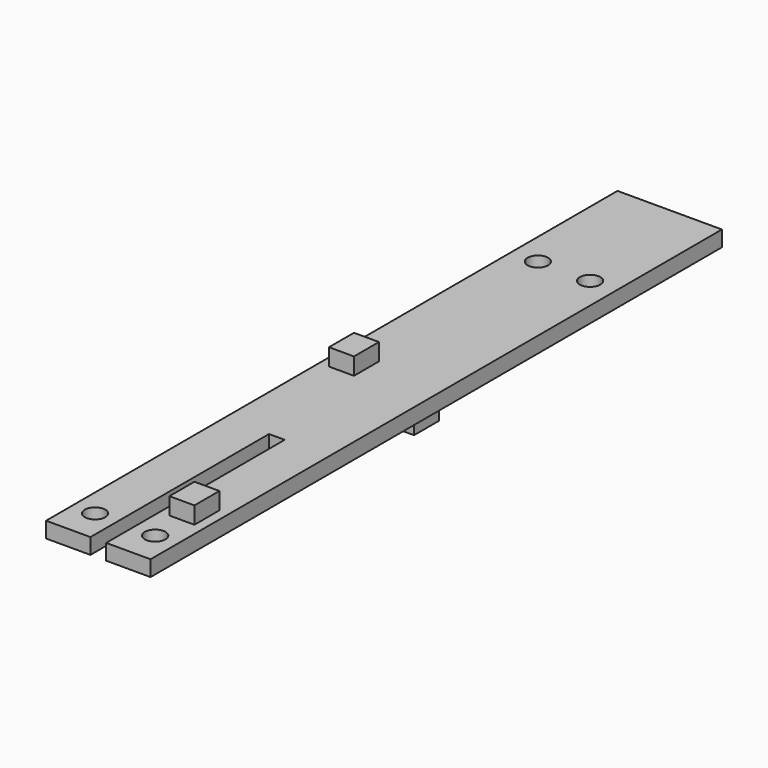
from build123d import *

# Parameters (mm, degrees)
F0_R      = 1.15
F1_DEPTH  = 0.88
F2_DEPTH  = 0.88
F3_W      = 2.8
F3_H      = 3.5
F4_DEPTH  = 2.79
F5_W      = 2.8
F5_H      = 3.5
F6_DEPTH  = 2.79
F8_DEPTH  = 2.79
F10_DEPTH = 2.79


with BuildPart() as f1:
    # F0 (on Top) → F1 (new body)
    with BuildSketch(Plane.XY):
        Polygon((5.85, 40), (-5.85, 40), (-5.85, 0), (-5.85, -40), (-0.88, -40), (-0.88, -15), (0.88, -15), (0.88, -40), (5.85, -40), (5.85, 0), align=None)
        with Locations((-3.365, -36.25)):
            Circle(F0_R, mode=Mode.SUBTRACT)
        with Locations((3.365, -36.25)):
            Circle(F0_R, mode=Mode.SUBTRACT)
        with Locations((-2.925, 25.2)):
            Circle(F0_R, mode=Mode.SUBTRACT)
        with Locations((2.925, 25.2)):
            Circle(F0_R, mode=Mode.SUBTRACT)
    extrude(amount=F1_DEPTH)

    # F0 (on Top) → F2 (join)
    with BuildSketch(Plane.XY):
        Polygon((5.85, 40), (-5.85, 40), (-5.85, 0), (-5.85, -40), (-0.88, -40), (-0.88, -15), (0.88, -15), (0.88, -40), (5.85, -40), (5.85, 0), align=None)
        with Locations((-3.365, -36.25)):
            Circle(F0_R, mode=Mode.SUBTRACT)
        with Locations((3.365, -36.25)):
            Circle(F0_R, mode=Mode.SUBTRACT)
        with Locations((-2.925, 25.2)):
            Circle(F0_R, mode=Mode.SUBTRACT)
        with Locations((2.925, 25.2)):
            Circle(F0_R, mode=Mode.SUBTRACT)
    extrude(amount=-F2_DEPTH)

    # F3 (on Top) → F4 (join)
    with BuildSketch(Plane.XY):
        with Locations((3.365, -30.75)):
            Rectangle(F3_W, F3_H)
    extrude(amount=F4_DEPTH)

    # F5 (on Top) → F6 (join)
    with BuildSketch(Plane.XY):
        with Locations((-3.365, -30.75)):
            Rectangle(F5_W, F5_H)
    extrude(amount=-F6_DEPTH)

    # F7 (on Top) → F8 (join)
    with BuildSketch(Plane.XY):
        Polygon((-1.965, -1.75), (-1.965, 0), (-1.965, 1.75), (-4.765, 1.75), (-4.765, 0), (-4.765, -1.75), align=None)
    extrude(amount=F8_DEPTH)

    # F9 (on Top) → F10 (join)
    with BuildSketch(Plane.XY):
        Polygon((1.965, -1.75), (4.765, -1.75), (4.765, 0), (4.765, 1.75), (1.965, 1.75), (1.965, 0), align=None)
    extrude(amount=-F10_DEPTH)


solid = f1.part
